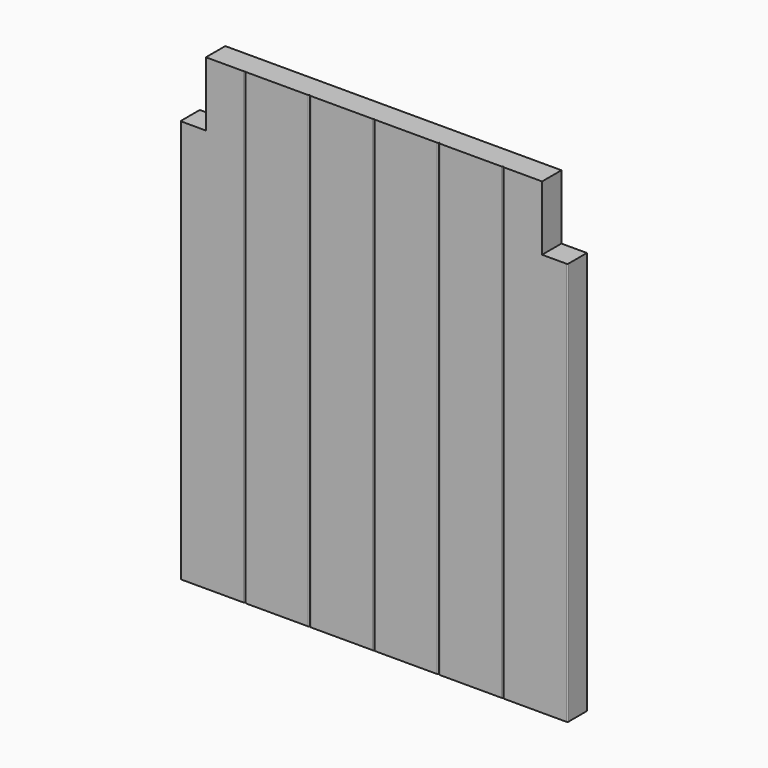
from build123d import *

# Parameters (mm, degrees)
F1_DEPTH = 368.3
F2_W     = 452.085844
F2_H     = 300.708675
F2_W_2   = 450.040182
F2_H_2   = 272.069744
F3_DEPTH = 381
F4_W     = 46.388466
F4_H     = 111.5514
F4_W_2   = 66.730906
F4_H_2   = 130.886974
F5_DEPTH = 12.7


with BuildPart() as f1:
    # F0 (on Top) → F1 (new body)
    with BuildSketch(Plane.XY):
        with BuildLine():
            Line((458.216, -9.525), (533.4, -9.525))
            Line((533.4, -9.525), (533.4, 9.525))
            Line((533.4, 9.525), (-533.4, 9.525))
            Line((-533.4, 9.525), (-533.4, -9.525))
            Line((-533.4, -9.525), (-509.016, -9.525))
            ThreePointArc((-509.016, -9.525), (-508.29758, -9.22742), (-508, -8.509))
            ThreePointArc((-508, -8.509), (-507.70242, -9.22742), (-506.984, -9.525))
            Line((-506.984, -9.525), (-458.216, -9.525))
            ThreePointArc((-458.216, -9.525), (-457.49758, -9.22742), (-457.2, -8.509))
            ThreePointArc((-457.2, -8.509), (-456.90242, -9.22742), (-456.184, -9.525))
            Line((-456.184, -9.525), (-407.416, -9.525))
            ThreePointArc((-407.416, -9.525), (-406.69758, -9.22742), (-406.4, -8.509))
            ThreePointArc((-406.4, -8.509), (-406.10242, -9.22742), (-405.384, -9.525))
            Line((-405.384, -9.525), (-356.616, -9.525))
            ThreePointArc((-356.616, -9.525), (-355.89758, -9.22742), (-355.6, -8.509))
            ThreePointArc((-355.6, -8.509), (-355.30242, -9.22742), (-354.584, -9.525))
            Line((-354.584, -9.525), (-305.816, -9.525))
            ThreePointArc((-305.816, -9.525), (-305.09758, -9.22742), (-304.8, -8.509))
            ThreePointArc((-304.8, -8.509), (-304.50242, -9.22742), (-303.784, -9.525))
            Line((-303.784, -9.525), (-255.016, -9.525))
            ThreePointArc((-255.016, -9.525), (-254.29758, -9.22742), (-254, -8.509))
            ThreePointArc((-254, -8.509), (-253.70242, -9.22742), (-252.984, -9.525))
            Line((-252.984, -9.525), (-204.216, -9.525))
            ThreePointArc((-204.216, -9.525), (-203.49758, -9.22742), (-203.2, -8.509))
            ThreePointArc((-203.2, -8.509), (-202.90242, -9.22742), (-202.184, -9.525))
            Line((-202.184, -9.525), (-153.416, -9.525))
            ThreePointArc((-153.416, -9.525), (-152.69758, -9.22742), (-152.4, -8.509))
            ThreePointArc((-152.4, -8.509), (-152.10242, -9.22742), (-151.384, -9.525))
            Line((-151.384, -9.525), (-102.616, -9.525))
            ThreePointArc((-102.616, -9.525), (-101.89758, -9.22742), (-101.6, -8.509))
            ThreePointArc((-101.6, -8.509), (-101.30242, -9.22742), (-100.584, -9.525))
            Line((-100.584, -9.525), (-51.816, -9.525))
            ThreePointArc((-51.816, -9.525), (-51.09758, -9.22742), (-50.8, -8.509))
            ThreePointArc((-50.8, -8.509), (-50.50242, -9.22742), (-49.784, -9.525))
            Line((-49.784, -9.525), (-1.016, -9.525))
            ThreePointArc((-1.016, -9.525), (-0.29758, -9.22742), (0, -8.509))
            ThreePointArc((0, -8.509), (0.29758, -9.22742), (1.016, -9.525))
            Line((1.016, -9.525), (49.784, -9.525))
            ThreePointArc((49.784, -9.525), (50.50242, -9.22742), (50.8, -8.509))
            ThreePointArc((50.8, -8.509), (51.09758, -9.22742), (51.816, -9.525))
            Line((51.816, -9.525), (100.584, -9.525))
            ThreePointArc((100.584, -9.525), (101.30242, -9.22742), (101.6, -8.509))
            ThreePointArc((101.6, -8.509), (101.89758, -9.22742), (102.616, -9.525))
            Line((102.616, -9.525), (151.384, -9.525))
            ThreePointArc((151.384, -9.525), (152.10242, -9.22742), (152.4, -8.509))
            ThreePointArc((152.4, -8.509), (152.69758, -9.22742), (153.416, -9.525))
            Line((153.416, -9.525), (202.184, -9.525))
            ThreePointArc((202.184, -9.525), (202.90242, -9.22742), (203.2, -8.509))
            ThreePointArc((203.2, -8.509), (203.49758, -9.22742), (204.216, -9.525))
            Line((204.216, -9.525), (252.984, -9.525))
            ThreePointArc((252.984, -9.525), (253.70242, -9.22742), (254, -8.509))
            ThreePointArc((254, -8.509), (254.29758, -9.22742), (255.016, -9.525))
            Line((255.016, -9.525), (303.784, -9.525))
            ThreePointArc((303.784, -9.525), (304.50242, -9.22742), (304.8, -8.509))
            ThreePointArc((304.8, -8.509), (305.09758, -9.22742), (305.816, -9.525))
            Line((305.816, -9.525), (354.584, -9.525))
            ThreePointArc((354.584, -9.525), (355.30242, -9.22742), (355.6, -8.509))
            ThreePointArc((355.6, -8.509), (355.89758, -9.22742), (356.616, -9.525))
            Line((356.616, -9.525), (405.384, -9.525))
            ThreePointArc((405.384, -9.525), (406.10242, -9.22742), (406.4, -8.509))
            ThreePointArc((406.4, -8.509), (406.69758, -9.22742), (407.416, -9.525))
            Line((407.416, -9.525), (456.184, -9.525))
            ThreePointArc((456.184, -9.525), (456.90242, -9.22742), (457.2, -8.509))
            ThreePointArc((457.2, -8.509), (457.49758, -9.22742), (458.216, -9.525))
        make_face()
        with BuildLine():
            ThreePointArc((-508, -8.509), (-508.29758, -9.22742), (-509.016, -9.525))
            Line((-509.016, -9.525), (-506.984, -9.525))
            ThreePointArc((-506.984, -9.525), (-507.70242, -9.22742), (-508, -8.509))
        make_face()
    extrude(amount=F1_DEPTH)

    # F2 (on Top) → F3 (cut)
    with BuildSketch(Plane.XY):
        with Locations((-378.442922, -15.51013)):
            Rectangle(F2_W, F2_H)
        with Locations((377.420091, 0.854973)):
            Rectangle(F2_W_2, F2_H_2)
    extrude(amount=F3_DEPTH, mode=Mode.SUBTRACT)

    # F4 (on Front) → F5 (cut, symmetric)
    with BuildSketch(Plane.XZ):
        with Locations((-155.528233, 373.2757)):
            Rectangle(F4_W, F4_H)
        with Locations((165.699453, 382.943487)):
            Rectangle(F4_W_2, F4_H_2)
    extrude(amount=F5_DEPTH, both=True, mode=Mode.SUBTRACT)


solid = f1.part
